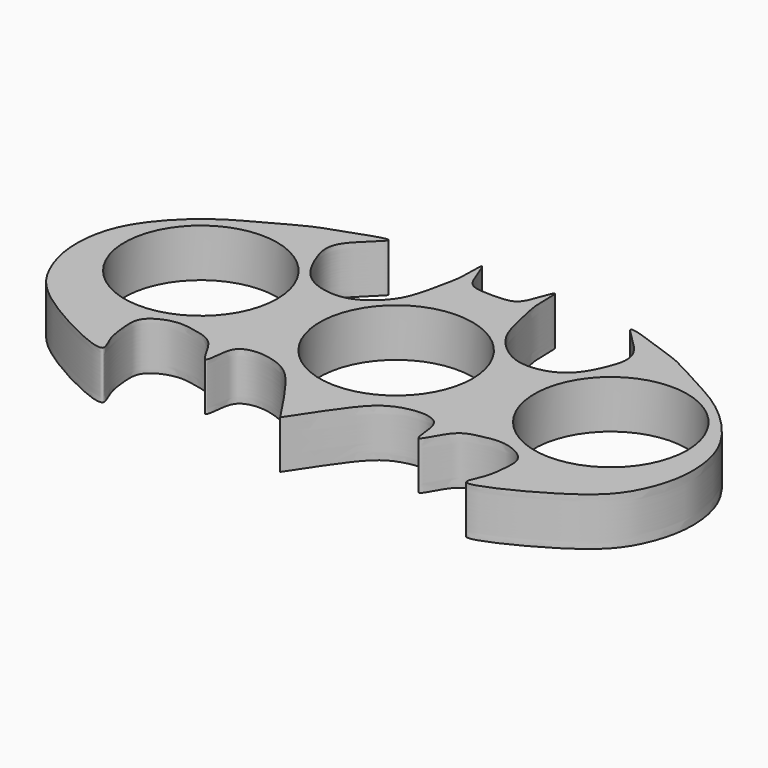
from build123d import *

# Parameters (mm, degrees)
F0_R     = 11.115
F1_DEPTH = 7


with BuildPart() as f1:
    # F0 (on Top) → F1 (new body)
    with BuildSketch(Plane.XY):
        with BuildLine():
            add(Edge.make_bspline(
                [(0, 17.4072906375), (1.0140059526, 17.4142236555), (2.5565149392, 17.4646767645), (4.085871655, 18.4893956549), (5.6310452239, 24.2347103656), (5.3331465472, 18.6602861793), (5.9841227186, 16.3589157366), (6.9034846209, 11.0745233191), (9.3151948121, 8.1591011723), (12.5511209474, 6.0512306292), (16.9026051592, 6.5247592764), (19.7206530741, 8.5495129661), (21.5506458074, 12.3478099886), (22.647330331, 16.5930698318), (14.6813652478, 22.2715975167), (23.5687545421, 18.8270994436), (26.4679063059, 18.0211809903), (31.3958049905, 15.1454367873), (36.6671815942, 12.4946044164), (41.9031961365, 7.414872592), (44.5335900134, 2.4992784353), (45.152257583, -3.5513769391), (43.3174494116, -9.6916789599), (39.2692833086, -15.0867497961), (24.7867812504, -22.299049904), (27.4045740424, -18.0886748291), (27.7717517651, -14.8161395913), (27.940092957, -11.7324254885), (24.0262650985, -9.7860310442), (20.5872635381, -10.5144638273), (17.5175694346, -11.2098114375), (15.1069512712, -17.3646026844), (15.1963575127, -11.5303523293), (13.5791749101, -10.3774695739), (11.3371082559, -10.027626164), (7.6821724077, -10.9580867105), (5.0493799852, -13.5505543966), (1.9599643104, -18.1220722077), (0.5942990885, -20.196717102), (0, -21.0977178067)],
                knots=[0, 0, 0, 0, 0.0209271565, 0.0394129418, 0.0646089172, 0.0877466148, 0.1110110992, 0.1407974191, 0.1665669662, 0.1919096409, 0.2187370591, 0.242934249, 0.2697205742, 0.2970182162, 0.3281346528, 0.3592651109, 0.3855318803, 0.4159494494, 0.4487904932, 0.4841969957, 0.5153275662, 0.5474481309, 0.5796623575, 0.6168717735, 0.6638715078, 0.6830545026, 0.7085155658, 0.7303561031, 0.7560447942, 0.7807235887, 0.8047854901, 0.8309637825, 0.8553062497, 0.8738105437, 0.8931881151, 0.9182494845, 0.943896718, 0.975012513, 1, 1, 1, 1], degree=3))
            add(Edge.make_bspline(
                [(0, 17.4072906375), (-1.0140059526, 17.4142236555), (-2.5565149392, 17.4646767645), (-4.085871655, 18.4893956549), (-5.6310452239, 24.2347103656), (-5.3331465472, 18.6602861793), (-5.9841227186, 16.3589157366), (-6.9034846209, 11.0745233191), (-9.3151948121, 8.1591011723), (-12.5511209474, 6.0512306292), (-16.9026051592, 6.5247592764), (-19.7206530741, 8.5495129661), (-21.5506458074, 12.3478099886), (-22.647330331, 16.5930698318), (-14.6813652478, 22.2715975167), (-23.5687545421, 18.8270994436), (-26.4679063059, 18.0211809903), (-31.3958049905, 15.1454367873), (-36.6671815942, 12.4946044164), (-41.9031961365, 7.414872592), (-44.5335900134, 2.4992784353), (-45.152257583, -3.5513769391), (-43.3174494116, -9.6916789599), (-39.2692833086, -15.0867497961), (-24.7867812504, -22.299049904), (-27.4045740424, -18.0886748291), (-27.7717517651, -14.8161395913), (-27.940092957, -11.7324254885), (-24.0262650985, -9.7860310442), (-20.5872635381, -10.5144638273), (-17.5175694346, -11.2098114375), (-15.1069512712, -17.3646026844), (-15.1963575127, -11.5303523293), (-13.5791749101, -10.3774695739), (-11.3371082559, -10.027626164), (-7.6821724077, -10.9580867105), (-5.0493799852, -13.5505543966), (-1.9599643104, -18.1220722077), (-0.5942990885, -20.196717102), (0, -21.0977178067)],
                knots=[0, 0, 0, 0, 0.0209271565, 0.0394129418, 0.0646089172, 0.0877466148, 0.1110110992, 0.1407974191, 0.1665669662, 0.1919096409, 0.2187370591, 0.242934249, 0.2697205742, 0.2970182162, 0.3281346528, 0.3592651109, 0.3855318803, 0.4159494494, 0.4487904932, 0.4841969957, 0.5153275662, 0.5474481309, 0.5796623575, 0.6168717735, 0.6638715078, 0.6830545026, 0.7085155658, 0.7303561031, 0.7560447942, 0.7807235887, 0.8047854901, 0.8309637825, 0.8553062497, 0.8738105437, 0.8931881151, 0.9182494845, 0.943896718, 0.975012513, 1, 1, 1, 1], degree=3))
        make_face()
        Circle(F0_R, mode=Mode.SUBTRACT)
        with Locations((-29.5947063714, 1.4610688668)):
            Circle(F0_R, mode=Mode.SUBTRACT)
        with Locations((30.0721228123, 1.4610688668)):
            Circle(F0_R, mode=Mode.SUBTRACT)
    extrude(amount=F1_DEPTH)


solid = f1.part
